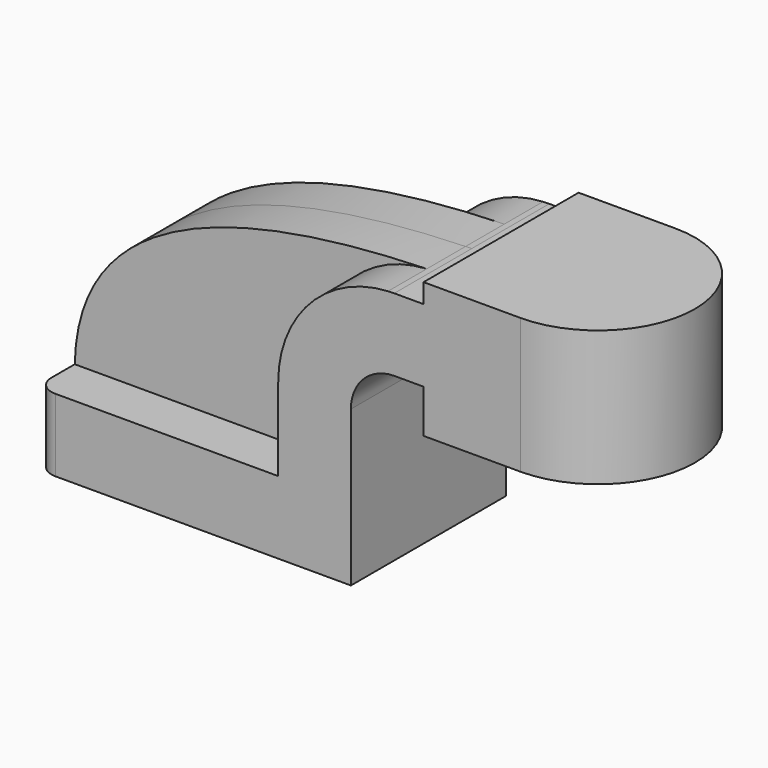
from build123d import *

# Parameters (mm, degrees)
F1_DEPTH = 25.4
F2_DEPTH = 25.4
F3_DEPTH = 12.7
F0_W     = 25.4
F0_H     = 35.486
F5_R     = 5.08


with BuildPart() as f1:
    # F0 (on Front) → F1 (new body, symmetric)
    with BuildSketch(Plane.XZ):
        Polygon((-41.275, -9.525), (41.275, -9.525), (41.275, 9.525), (22.225, 9.525), (-41.275, 9.525), align=None)
    extrude(amount=F1_DEPTH, both=True)

    # F0 (on Front) → F2 (join, symmetric)
    with BuildSketch(Plane.XZ):
        with BuildLine():
            Line((22.225, 9.525), (41.275, 9.525))
            Line((41.275, 9.525), (41.275, 31.189))
            ThreePointArc((41.275, 31.189), (44.601095, 39.218905), (52.631, 42.545))
            Line((52.631, 42.545), (60.325, 42.545))
            Line((60.325, 42.545), (60.325, 61.595))
            Line((60.325, 61.595), (52.631, 61.595))
            add(Edge.make_bspline(
                [(51.01188, 61.55186), (51.549241, 61.567455), (52.088947, 61.581835), (52.631, 61.595)],
                knots=[106.436193, 106.436193, 106.436193, 106.436193, 107.376077, 107.376077, 107.376077, 107.376077], degree=3))
            ThreePointArc((51.01188, 61.55186), (30.56569, 52.109013), (22.225, 31.189))
            Line((22.225, 31.189), (22.225, 9.525))
        make_face()
        Polygon((60.325, 61.595), (60.325, 42.545), (60.325, 31.189), (85.725, 31.189), (85.725, 66.675), (60.325, 66.675), align=None)
    extrude(amount=F2_DEPTH, both=True)

    # F0 (on Front) → F3 (join, symmetric)
    with BuildSketch(Plane.XZ):
        with BuildLine():
            add(Edge.make_bspline(
                [(-41.275, 9.525), (-40.603282, 42.443589), (-9.840989, 59.785876), (51.01188, 61.55186)],
                knots=[0, 0, 0, 0, 106.436193, 106.436193, 106.436193, 106.436193], degree=3))
            Line((-41.275, 9.525), (22.225, 9.525))
            Line((22.225, 9.525), (22.225, 31.189))
            ThreePointArc((22.225, 31.189), (30.56569, 52.109013), (51.01188, 61.55186))
        make_face()
    extrude(amount=F3_DEPTH, both=True)

    # F0 (on Front) → F4 (revolve)
    with BuildSketch(Plane.XZ):
        with Locations((98.425, 48.932)):
            Rectangle(F0_W, F0_H)
    revolve(axis=Axis((85.725, 0, 48.932), (0, 0, 1)))

    # F5
    f5_edges = [f1.edges().sort_by_distance(p)[0] for p in [
        (-41.275, -25.4, 0),
        (-41.275, 25.4, 0),
    ]]
    fillet(f5_edges, radius=F5_R)


solid = f1.part
